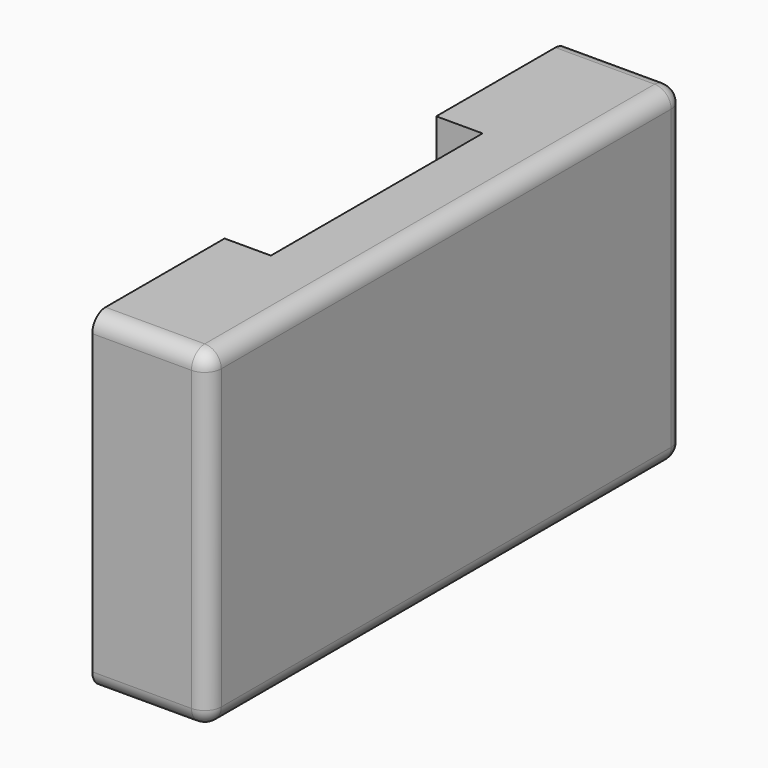
from build123d import *

# Parameters (mm, degrees)
F1_DEPTH  = 35
F2_W      = 14
F2_H      = 80
F3_DEPTH  = 15
F4_R      = 32.5
F5_DEPTH  = 15
F6_W      = 14
F6_H      = 66.9722852701
F7_DEPTH  = 20
F8_DEPTH  = 5
F9_R      = 5
F11_DEPTH = 15


with BuildPart() as f1:
    # F0 (on Right) → F1 (new body)
    with BuildSketch(Plane.YZ):
        with BuildLine():
            Line((58.0277147299, 59.5856680407), (-111.9722852701, 59.5856680407))
            ThreePointArc((-111.9722852701, 59.5856680407), (-115.507819176, 58.1212019466), (-116.9722852701, 54.5856680407))
            Line((-116.9722852701, 54.5856680407), (-116.9722852701, -35.4143319593))
            ThreePointArc((-116.9722852701, -35.4143319593), (-115.507819176, -38.9498658653), (-111.9722852701, -40.4143319593))
            Line((-111.9722852701, -40.4143319593), (58.0277147299, -40.4143319593))
            ThreePointArc((58.0277147299, -40.4143319593), (61.5632486359, -38.9498658653), (63.0277147299, -35.4143319593))
            Line((63.0277147299, -35.4143319593), (63.0277147299, 54.5856680407))
            ThreePointArc((63.0277147299, 54.5856680407), (61.5632486359, 58.1212019466), (58.0277147299, 59.5856680407))
        make_face()
    extrude(amount=F1_DEPTH)

    # F2 (on face) → F3 (cut)
    with BuildSketch(Plane.XY.offset(59.5856680407)):
        with Locations((7, -26.9722852701)):
            Rectangle(F2_W, F2_H)
    extrude(amount=-F3_DEPTH, mode=Mode.SUBTRACT)

    # F4 (on face) → F5 (cut)
    with BuildSketch(Plane(origin=(0, 0, 0), x_dir=(0, -1, 0), z_dir=(-1, 0, 0))):
        with Locations((26.9722852701, 0)):
            Circle(F4_R)
    extrude(amount=-F5_DEPTH, mode=Mode.SUBTRACT)

    # F6 (on face) → F7 (cut)
    with BuildSketch(Plane.XY.offset(59.5856680407)):
        with Locations((7, -33.486142635)):
            Rectangle(F6_W, F6_H)
    extrude(amount=-F7_DEPTH, mode=Mode.SUBTRACT)

    # F8 (cut): a face of the model
    f8_faces = [f1.faces().sort_by_distance(p)[0] for p in [
        (7, 6.513857365, 44.5856680407),
    ]]
    extrude(f8_faces, amount=-F8_DEPTH, mode=Mode.SUBTRACT)

    # F9
    f9_edges = [f1.edges().sort_by_distance(p)[0] for p in [
        (35, 61.563249, 58.121202),
        (35, -26.972285, 59.585668),
        (35, -115.507819, 58.121202),
        (35, -116.972285, 9.585668),
        (35, -115.507819, -38.949866),
        (35, -26.972285, -40.414332),
        (35, 61.563249, -38.949866),
        (35, 63.027715, 9.585668),
    ]]
    fillet(f9_edges, radius=F9_R)

    # F10 (on face) → F11 (cut)
    with BuildSketch(Plane(origin=(0, 0, 0), x_dir=(0, -1, 0), z_dir=(-1, 0, 0))):
        with BuildLine():
            Line((100.1400923047, 1.4106337988), (66.9722852701, 39.5856680407))
            Line((66.9722852701, 39.5856680407), (46.274099499, 39.5856680407))
            Line((46.274099499, 39.5856680407), (79.0167047111, 10.1334832275))
            ThreePointArc((79.0167047111, 10.1334832275), (80.3412411164, 4.6254181345), (75.672894817, 1.4161003589))
            Line((75.672894817, 1.4161003589), (59.4414192248, 1.4161003589))
            ThreePointArc((59.4414192248, 1.4161003589), (59.4645678425, 0.7082183525), (59.4722852701, 0))
            ThreePointArc((59.4722852701, 0), (58.8613058145, -6.2721901054), (57.0513395028, -12.3085537925))
            Line((57.0513395028, -12.3085537925), (96.3657003641, -12.3085537925))
            ThreePointArc((96.3657003641, -12.3085537925), (99.90123427, -10.8440876985), (101.3657003641, -7.3085537925))
            Line((101.3657003641, -7.3085537925), (101.3657003641, -1.8686901374))
            ThreePointArc((101.3657003641, -1.8686901374), (101.049286581, -0.1182558632), (100.1400923047, 1.4106337988))
        make_face()
    extrude(amount=-F11_DEPTH, mode=Mode.SUBTRACT)


solid = f1.part
